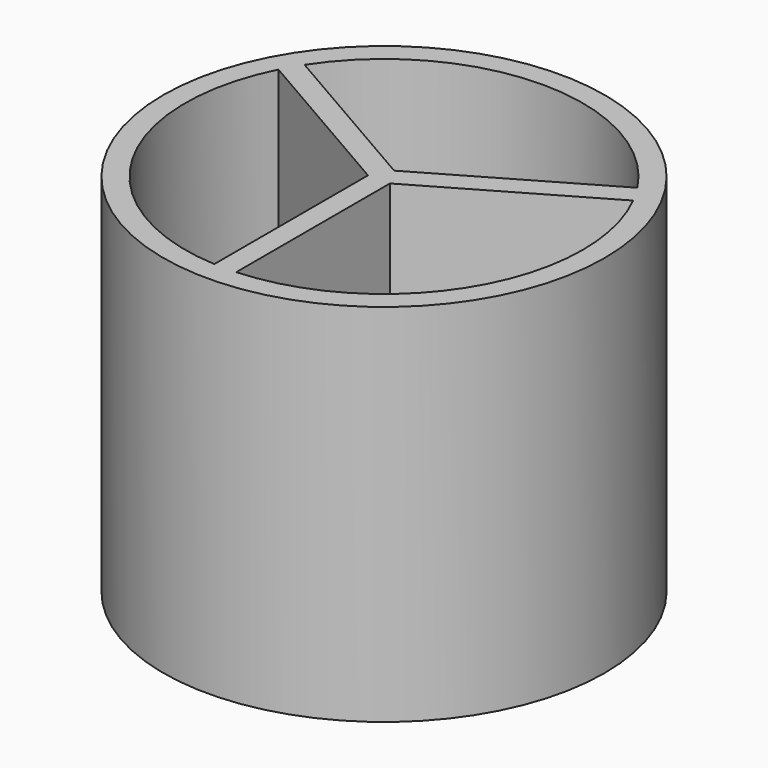
from build123d import *

# Parameters (mm, degrees)
F0_R     = 3.02
F1_DEPTH = 5
F3_DEPTH = 5


with BuildPart() as f1:
    # F0 (on Top) → F1 (new body)
    with BuildSketch(Plane.XY):
        Circle(F0_R)
    extrude(amount=F1_DEPTH)

    # F2 (on face) → F3 (cut)
    with BuildSketch(Plane.XY.offset(5)):
        with BuildLine():
            ThreePointArc((-2.4270044643, 1.2280266), (-2.3555890983, -1.36), (-0.15, -2.7158608212))
            Line((-0.15, -2.7158608212), (-0.15, -0.0866025404))
            Line((-0.15, -0.0866025404), (-2.4270044643, 1.2280266))
        make_face()
        with BuildLine():
            Line((0, 0.1732050808), (2.2770044643, 1.4878342212))
            ThreePointArc((2.2770044643, 1.4878342212), (0, 2.72), (-2.2770044643, 1.4878342212))
            Line((-2.2770044643, 1.4878342212), (0, 0.1732050808))
        make_face()
        with BuildLine():
            ThreePointArc((0.15, -2.7158608212), (1.9756517912, -1.8695453993), (2.72, 0))
            ThreePointArc((2.72, 0), (2.6457373398, 0.6312479137), (2.4270044643, 1.2280266))
            Line((2.4270044643, 1.2280266), (0.15, -0.0866025404))
            Line((0.15, -0.0866025404), (0.15, -2.7158608212))
        make_face()
    extrude(amount=-F3_DEPTH, mode=Mode.SUBTRACT)


solid = f1.part
